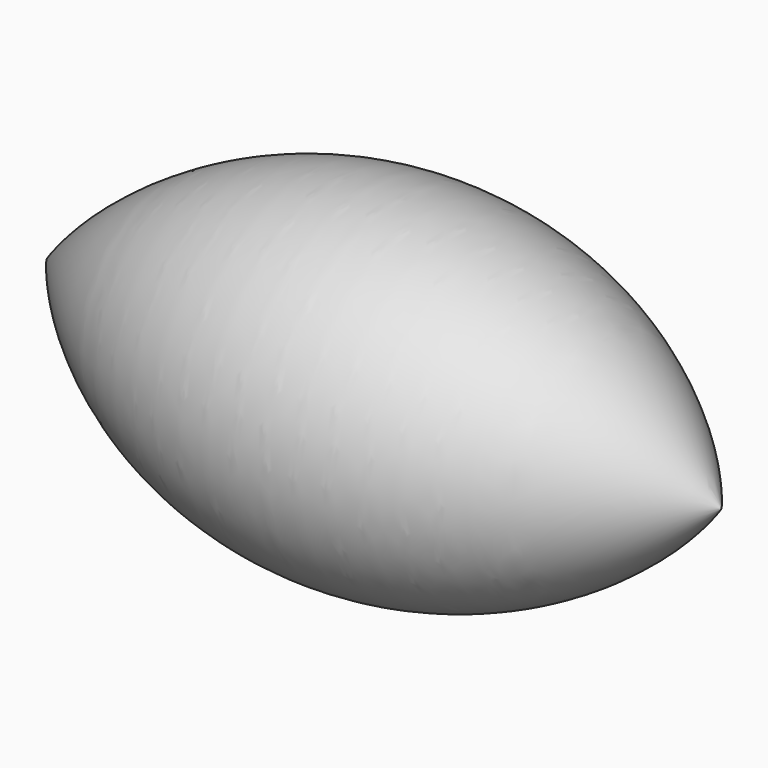
from build123d import *


with BuildPart() as f1:
    # F0 (on Front) → F1 (revolve)
    with BuildSketch(Plane.XZ):
        with BuildLine():
            Line((37.990358, 0), (-37.990361, 0))
            ThreePointArc((-37.990361, 0), (-2e-06, -19.048245), (37.990358, 0))
        make_face()
    revolve(axis=Axis((-2e-06, 0, 0), (1, 0, 0)))


solid = f1.part
